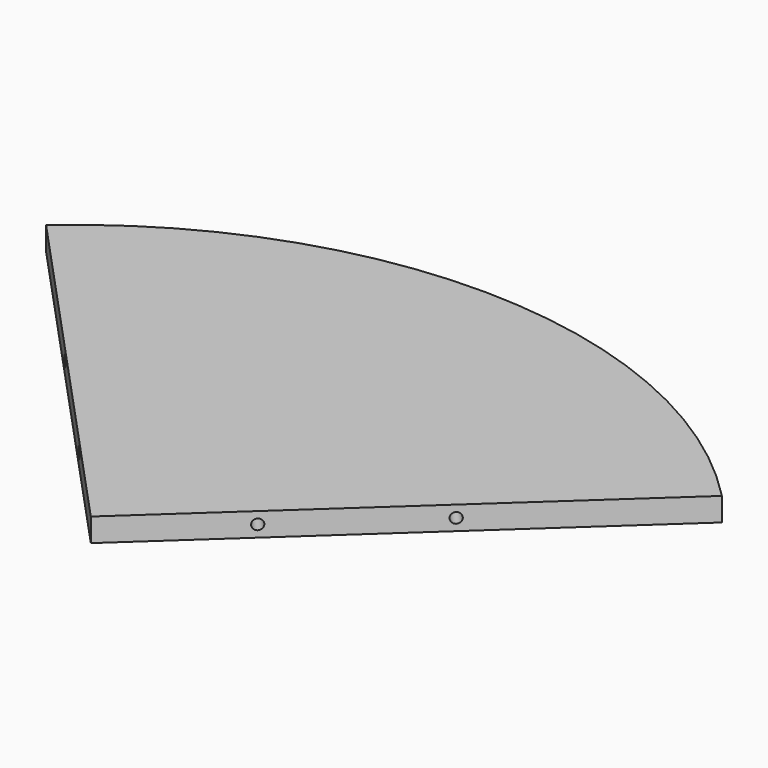
from build123d import *

# Parameters (mm, degrees)
F1_DEPTH       = 18
F4_D           = 8
F4_DEPTH       = 21
F4_TIP         = 2.4034424761
F4_ON_F2_D     = 8
F4_ON_F2_DEPTH = 21
F4_ON_F2_TIP   = 2.4034424761


with BuildPart() as f1:
    # F0 (on Top) → F1 (new body)
    with BuildSketch(Plane.XY):
        with BuildLine():
            ThreePointArc((279.7628534604, 271.7218169814), (15.5579598443, 389.6895557819), (-257.2105231107, 293.1599338265))
            Line((-257.2105231107, 293.1599338265), (0.5571067524, 13.9541871184))
            Line((0.5571067524, 13.9541871184), (279.7628534604, 271.7218169814))
        make_face()
    extrude(amount=F1_DEPTH)

    # F4
    with Locations(Plane(origin=(-6.698540183, 7.2556469354, 0), x_dir=(0.734751965, 0.6783358681, 0), z_dir=(0.6783358681, -0.734751965, 0))):
        with Locations((110.3749609131, 9), (229.8749609131, 9)):
            Hole(F4_D / 2, depth=F4_DEPTH)
            with Locations((0, 0, -(F4_DEPTH + F4_TIP / 2))):  # 118° drill point
                Cone(0, F4_D / 2, F4_TIP, mode=Mode.SUBTRACT)

    # F4 on F2
    with Locations(Plane(origin=(7.2556469354, 6.698540183, 0), x_dir=(0.6783358681, -0.734751965, 0), z_dir=(-0.734751965, -0.6783358681, 0))):
        with Locations((-110.3749609131, 9), (-229.8749609131, 9)):
            Hole(F4_ON_F2_D / 2, depth=F4_ON_F2_DEPTH)
            with Locations((0, 0, -(F4_ON_F2_DEPTH + F4_ON_F2_TIP / 2))):  # 118° drill point
                Cone(0, F4_ON_F2_D / 2, F4_ON_F2_TIP, mode=Mode.SUBTRACT)


solid = f1.part
